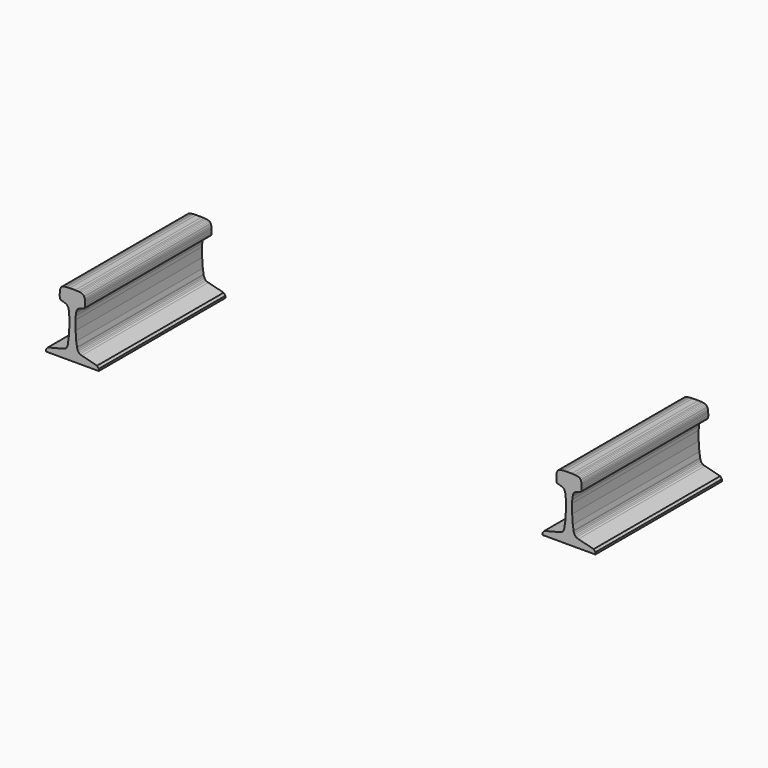
from build123d import *

# Parameters (mm, degrees)
F1_DEPTH = 457.2
F2_SIZE  = 5.08


with BuildPart() as f1:
    # F0 (on Front) → F1 (new body)
    with BuildSketch(Plane.XZ):
        Polygon((-76.2, -46.21704), (-76.2, -57.094753), (76.2, -57.094753), (76.2, -46.21704), (26.83735, -33.72637), (21.163462, -31.835258), (18.708812, -29.612178), (16.218112, -26.55388), (14.689744, -22.895062), (13.485576, -19.143616), (13.305501, -16.85449), (10.935693, -2.660843), (9.173225, 23.941404), (9.095304, 51.274587), (9.465817, 61.371074), (10.203332, 68.52603), (11.415046, 73.405639), (12.987001, 77.66302), (14.984693, 80.446691), (18.095852, 83.001115), (20.683027, 84.147327), (25.922873, 85.98128), (30.180251, 87.1275), (33.094916, 87.749728), (34.175634, 88.306465), (35.387348, 89.616426), (36.173157, 90.991981), (36.40228, 91.97448), (36.598587, 93.513711), (36.598872, 93.52041), (36.827176, 98.88458), (36.669851, 103.667696), (36.407496, 106.64783), (36.177806, 110.315693), (35.555092, 114.278253), (34.24468, 117.978737), (33.327476, 119.878062), (31.132972, 122.464971), (28.218115, 124.036569), (24.026078, 125.34602), (19.539378, 126.000454), (15.433662, 126.392808), (7.999516, 126.762047), (0, 126.762047), (-7.999516, 126.762047), (-15.433662, 126.392808), (-19.539378, 126.000454), (-24.026078, 125.34602), (-28.218115, 124.036569), (-31.132972, 122.464971), (-33.327476, 119.878062), (-34.24468, 117.978737), (-35.555092, 114.278253), (-36.177806, 110.315693), (-36.407496, 106.64783), (-36.669851, 103.667696), (-36.827176, 98.88458), (-36.598872, 93.52041), (-36.598587, 93.513711), (-36.40228, 91.97448), (-36.173157, 90.991981), (-35.387348, 89.616426), (-34.175634, 88.306465), (-33.094916, 87.749728), (-30.180251, 87.1275), (-25.922873, 85.98128), (-20.683027, 84.147327), (-18.095852, 83.001115), (-14.984693, 80.446691), (-12.987001, 77.66302), (-11.415046, 73.405639), (-10.203332, 68.52603), (-9.465817, 61.371074), (-9.095304, 51.274587), (-9.173225, 23.941404), (-10.935693, -2.660843), (-13.305501, -16.85449), (-13.485576, -19.143616), (-14.689744, -22.895062), (-16.218112, -26.55388), (-18.708812, -29.612178), (-21.163462, -31.835258), (-26.83735, -33.72637), align=None)
        Polygon((1469.275634, 88.306465), (1470.487348, 89.616426), (1471.273157, 90.991981), (1471.50228, 91.97448), (1471.698587, 93.513711), (1471.698872, 93.52041), (1471.927176, 98.88458), (1471.769851, 103.667696), (1471.507496, 106.64783), (1471.277806, 110.315693), (1470.655092, 114.278253), (1469.34468, 117.978737), (1468.427476, 119.878062), (1466.232972, 122.464971), (1463.318115, 124.036569), (1459.126078, 125.34602), (1454.639378, 126.000454), (1450.533662, 126.392808), (1443.099516, 126.762047), (1435.1, 126.762047), (1427.100484, 126.762047), (1419.666338, 126.392808), (1415.560622, 126.000454), (1411.073922, 125.34602), (1406.881885, 124.036569), (1403.967028, 122.464971), (1401.772524, 119.878062), (1400.85532, 117.978737), (1399.544908, 114.278253), (1398.922194, 110.315693), (1398.692504, 106.64783), (1398.430149, 103.667696), (1398.272824, 98.88458), (1398.501128, 93.52041), (1398.501413, 93.513711), (1398.69772, 91.97448), (1398.926843, 90.991981), (1399.712652, 89.616426), (1400.924366, 88.306465), (1402.005084, 87.749728), (1404.919749, 87.1275), (1409.177127, 85.98128), (1414.416973, 84.147327), (1417.004148, 83.001115), (1420.115307, 80.446691), (1422.112999, 77.66302), (1423.684954, 73.405639), (1424.896668, 68.52603), (1425.634183, 61.371074), (1426.004696, 51.274587), (1425.926775, 23.941404), (1424.164307, -2.660843), (1421.794499, -16.85449), (1421.614424, -19.143616), (1420.410256, -22.895062), (1418.881888, -26.55388), (1416.391188, -29.612178), (1413.936538, -31.835258), (1408.26265, -33.72637), (1358.9, -46.21704), (1358.9, -57.094753), (1511.3, -57.094753), (1511.3, -46.21704), (1461.93735, -33.72637), (1456.263462, -31.835258), (1453.808812, -29.612178), (1451.318112, -26.55388), (1449.789744, -22.895062), (1448.585576, -19.143616), (1448.405501, -16.85449), (1446.035693, -2.660843), (1444.273225, 23.941404), (1444.195304, 51.274587), (1444.565817, 61.371074), (1445.303332, 68.52603), (1446.515046, 73.405639), (1448.087001, 77.66302), (1450.084693, 80.446691), (1453.195852, 83.001115), (1455.783027, 84.147327), (1461.022873, 85.98128), (1465.280251, 87.1275), (1468.194916, 87.749728), align=None)
    extrude(amount=-F1_DEPTH)

    # F2
    f2_edges = [f1.edges().sort_by_distance(p)[0] for p in [
        (76.2, 228.6, -46.21704),
        (-76.2, 228.6, -46.21704),
        (1358.9, 228.6, -46.21704),
        (1511.3, 228.6, -46.21704),
    ]]
    chamfer(f2_edges, length=F2_SIZE)


solid = f1.part
